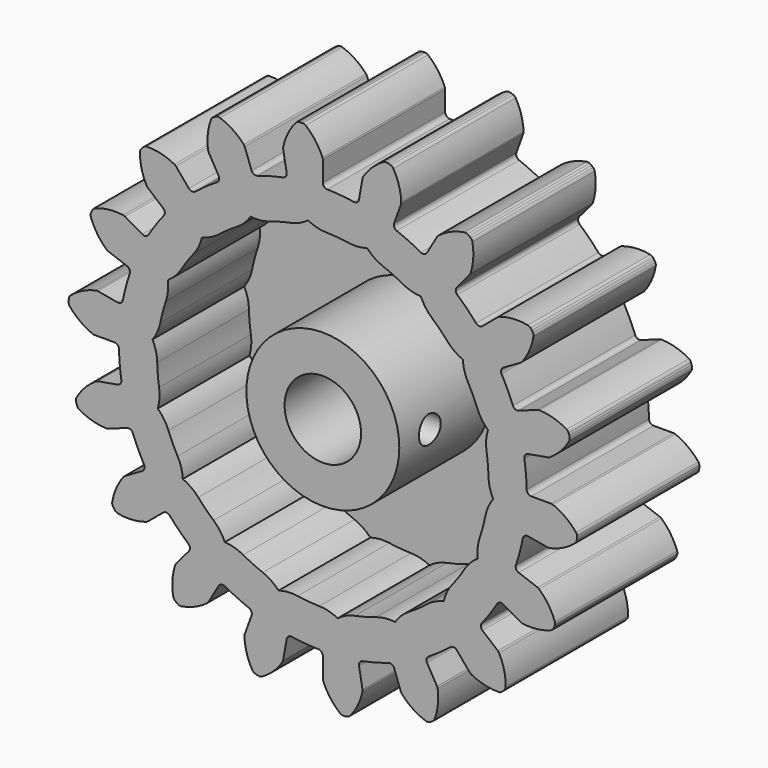
from build123d import *

# Parameters (mm, degrees)
F1_DEPTH = 12.7
F2_R     = 3.175
F3_DEPTH = 12.701
F4_T     = -3.175
F6_R     = 1.1303
F7_DEPTH = 6.35


with BuildPart() as f1:
    # F0 (on Front) → F1 (new body)
    with BuildSketch(Plane.XZ):
        with BuildLine():
            ThreePointArc((-3.0058744214, 17.0471609584), (-3.0666036009, 16.7659156467), (-3.3066857461, 16.6073359439))
            ThreePointArc((-3.3066857461, 16.6073359439), (-4.3826691637, 16.3563439918), (-5.4399941136, 16.0357176897))
            ThreePointArc((-5.4399941136, 16.0357176897), (-5.7272012017, 16.0530106682), (-5.9204168696, 16.2662116631))
            Line((-5.9204168696, 16.2662116631), (-6.4907674263, 17.8332369386))
            Line((-6.4907674263, 17.8332369386), (-6.5653963797, 17.9575816917))
            ThreePointArc((-6.5653963797, 17.9575816917), (-7.4660135694, 18.7370093288), (-8.531863767, 19.2685938658))
            ThreePointArc((-8.531863767, 19.2685938658), (-8.6601879259, 19.2900518345), (-8.7882499857, 19.2670813527))
            Line((-8.7882499857, 19.2670813527), (-8.9559287857, 19.2060512605))
            Line((-8.9559287857, 19.2060512605), (-9.1104624037, 19.1168312346))
            ThreePointArc((-9.1104624037, 19.1168312346), (-9.2103755189, 19.0334951464), (-9.2764229407, 18.9214002211))
            ThreePointArc((-9.2764229407, 18.9214002211), (-9.5543208608, 17.7632156462), (-9.5361502212, 16.5722964249))
            Line((-9.5361502212, 16.5722964249), (-9.4888671807, 16.4352000632))
            Line((-9.4888671807, 16.4352000632), (-8.6550704471, 14.9910217575))
            ThreePointArc((-8.6550704471, 14.9910217575), (-8.6159456471, 14.7059670108), (-8.7873116146, 14.4748379046))
            ThreePointArc((-8.7873116146, 14.4748379046), (-9.7125609889, 13.8709746166), (-10.5964607882, 13.2080580156))
            ThreePointArc((-10.5964607882, 13.2080580156), (-10.8722617165, 13.1260774904), (-11.1267440887, 13.2603372416))
            Line((-11.1267440887, 13.2603372416), (-12.1986525074, 14.5377879505))
            Line((-12.1986525074, 14.5377879505), (-12.3113091945, 14.6291091921))
            ThreePointArc((-12.3113091945, 14.6291091921), (-13.4241924739, 15.0535023708), (-14.607576659, 15.1884862002))
            ThreePointArc((-14.607576659, 15.1884862002), (-14.7355009818, 15.1647606478), (-14.8479835869, 15.0993756515))
            Line((-14.8479835869, 15.0993756515), (-14.9846765971, 14.9846765971))
            Line((-14.9846765971, 14.9846765971), (-15.0993756515, 14.8479835869))
            ThreePointArc((-15.0993756515, 14.8479835869), (-15.1647606478, 14.7355009818), (-15.1884862002, 14.607576659))
            ThreePointArc((-15.1884862002, 14.607576659), (-15.0535023708, 13.4241924739), (-14.6291091921, 12.3113091945))
            Line((-14.6291091921, 12.3113091945), (-14.5377879505, 12.1986525074))
            Line((-14.5377879505, 12.1986525074), (-13.2603372416, 11.1267440887))
            ThreePointArc((-13.2603372416, 11.1267440887), (-13.1260774904, 10.8722617165), (-13.2080580156, 10.5964607882))
            ThreePointArc((-13.2080580156, 10.5964607882), (-13.8709746166, 9.7125609889), (-14.4748379046, 8.7873116146))
            ThreePointArc((-14.4748379046, 8.7873116146), (-14.7059670108, 8.6159456471), (-14.9910217575, 8.6550704471))
            Line((-14.9910217575, 8.6550704471), (-16.4352000632, 9.4888671807))
            Line((-16.4352000632, 9.4888671807), (-16.5722964249, 9.5361502212))
            ThreePointArc((-16.5722964249, 9.5361502212), (-17.7632156462, 9.5543208608), (-18.9214002211, 9.2764229407))
            ThreePointArc((-18.9214002211, 9.2764229407), (-19.0334951464, 9.2103755189), (-19.1168312346, 9.1104624037))
            Line((-19.1168312346, 9.1104624037), (-19.2060512605, 8.9559287857))
            Line((-19.2060512605, 8.9559287857), (-19.2670813527, 8.7882499857))
            ThreePointArc((-19.2670813527, 8.7882499857), (-19.2900518345, 8.6601879259), (-19.2685938658, 8.531863767))
            ThreePointArc((-19.2685938658, 8.531863767), (-18.7370093288, 7.4660135694), (-17.9575816917, 6.5653963797))
            Line((-17.9575816917, 6.5653963797), (-17.8332369386, 6.4907674263))
            Line((-17.8332369386, 6.4907674263), (-16.2662116631, 5.9204168696))
            ThreePointArc((-16.2662116631, 5.9204168696), (-16.0530106682, 5.7272012017), (-16.0357176897, 5.4399941136))
            ThreePointArc((-16.0357176897, 5.4399941136), (-16.3563439918, 4.3826691637), (-16.6073359439, 3.3066857461))
            ThreePointArc((-16.6073359439, 3.3066857461), (-16.7659156467, 3.0666036009), (-17.0471609584, 3.0058744214))
            Line((-17.0471609584, 3.0058744214), (-18.6894199337, 3.2954489881))
            Line((-18.6894199337, 3.2954489881), (-18.8344201254, 3.2929907951))
            ThreePointArc((-18.8344201254, 3.2929907951), (-19.9597328543, 2.9027472483), (-20.9530236664, 2.2454861691))
            ThreePointArc((-20.9530236664, 2.2454861691), (-21.0357688919, 2.1450831719), (-21.079906901, 2.0226929339))
            Line((-21.079906901, 2.0226929339), (-21.1108926909, 1.8469637874))
            Line((-21.1108926909, 1.8469637874), (-21.1108926909, 1.6685237355))
            ThreePointArc((-21.1108926909, 1.6685237355), (-21.0886780791, 1.5403283954), (-21.024624737, 1.4270821877))
            ThreePointArc((-21.024624737, 1.4270821877), (-20.1605564329, 0.6073232417), (-19.1201048136, 0.0275998665))
            Line((-19.1201048136, 0.0275998665), (-18.9777343614, 0))
            Line((-18.9777343614, 0), (-17.3101408942, 0))
            ThreePointArc((-17.3101408942, 0), (-17.0437138421, -0.1086443026), (-16.9292331484, -0.3726161369))
            ThreePointArc((-16.9292331484, -0.3726161369), (-16.8688968877, -1.4758372439), (-16.7367441702, -2.572775225))
            ThreePointArc((-16.7367441702, -2.572775225), (-16.803647417, -2.8526160979), (-17.0471609584, -3.0058744214))
            Line((-17.0471609584, -3.0058744214), (-18.6894199337, -3.2954489881))
            Line((-18.6894199337, -3.2954489881), (-18.8248347923, -3.3473519202))
            ThreePointArc((-18.8248347923, -3.3473519202), (-19.748811706, -4.0989405223), (-20.4574032239, -5.0562893743))
            ThreePointArc((-20.4574032239, -5.0562893743), (-20.5008184542, -5.1789378638), (-20.5004346889, -5.3090431555))
            Line((-20.5004346889, -5.3090431555), (-20.4694488991, -5.484772302))
            Line((-20.4694488991, -5.484772302), (-20.4084188069, -5.652451102))
            ThreePointArc((-20.4084188069, -5.652451102), (-20.3436985116, -5.7653174724), (-20.2447755745, -5.8498265649))
            ThreePointArc((-20.2447755745, -5.8498265649), (-19.1524428931, -6.3246192321), (-17.9764611123, -6.5135255978))
            Line((-17.9764611123, -6.5135255978), (-17.8332369386, -6.4907674263))
            Line((-17.8332369386, -6.4907674263), (-16.2662116631, -5.9204168696))
            ThreePointArc((-16.2662116631, -5.9204168696), (-15.9786935883, -5.9313857005), (-15.7808332405, -6.1402833821))
            ThreePointArc((-15.7808332405, -6.1402833821), (-15.3468118605, -7.1563358988), (-14.8474540415, -8.1419215338))
            ThreePointArc((-14.8474540415, -8.1419215338), (-14.8146113134, -8.4277681951), (-14.9910217575, -8.6550704471))
            Line((-14.9910217575, -8.6550704471), (-16.4352000632, -9.4888671807))
            Line((-16.4352000632, -9.4888671807), (-16.5446965584, -9.5839545924))
            ThreePointArc((-16.5446965584, -9.5839545924), (-17.1558924045, -10.6062355721), (-17.4943180334, -11.7482017963))
            ThreePointArc((-17.4943180334, -11.7482017963), (-17.493166751, -11.8783025601), (-17.4483074991, -12.0004302872))
            Line((-17.4483074991, -12.0004302872), (-17.3590874732, -12.1549639052))
            Line((-17.3590874732, -12.1549639052), (-17.2443884187, -12.2916569153))
            ThreePointArc((-17.2443884187, -12.2916569153), (-17.1449686626, -12.375580966), (-17.0231076967, -12.4211598995))
            ThreePointArc((-17.0231076967, -12.4211598995), (-15.8342620804, -12.493719285), (-14.6645908966, -12.2690237457))
            Line((-14.6645908966, -12.2690237457), (-14.5377879505, -12.1986525074))
            Line((-14.5377879505, -12.1986525074), (-13.2603372416, -11.1267440887))
            ThreePointArc((-13.2603372416, -11.1267440887), (-12.9864070673, -11.038714445), (-12.7290319436, -11.1673418304))
            ThreePointArc((-12.7290319436, -11.1673418304), (-11.9736748281, -11.9736748281), (-11.1673418304, -12.7290319436))
            ThreePointArc((-11.1673418304, -12.7290319436), (-11.038714445, -12.9864070673), (-11.1267440887, -13.2603372416))
            Line((-11.1267440887, -13.2603372416), (-12.1986525074, -14.5377879505))
            Line((-12.1986525074, -14.5377879505), (-12.2690237457, -14.6645908966))
            ThreePointArc((-12.2690237457, -14.6645908966), (-12.493719285, -15.8342620804), (-12.4211598995, -17.0231076967))
            ThreePointArc((-12.4211598995, -17.0231076967), (-12.375580966, -17.1449686626), (-12.2916569153, -17.2443884187))
            Line((-12.2916569153, -17.2443884187), (-12.1549639052, -17.3590874732))
            Line((-12.1549639052, -17.3590874732), (-12.0004302872, -17.4483074991))
            ThreePointArc((-12.0004302872, -17.4483074991), (-11.8783025601, -17.493166751), (-11.7482017963, -17.4943180334))
            ThreePointArc((-11.7482017963, -17.4943180334), (-10.6062355721, -17.1558924045), (-9.5839545924, -16.5446965584))
            Line((-9.5839545924, -16.5446965584), (-9.4888671807, -16.4352000632))
            Line((-9.4888671807, -16.4352000632), (-8.6550704471, -14.9910217575))
            ThreePointArc((-8.6550704471, -14.9910217575), (-8.4277681951, -14.8146113134), (-8.1419215338, -14.8474540415))
            ThreePointArc((-8.1419215338, -14.8474540415), (-7.1563358988, -15.3468118605), (-6.1402833821, -15.7808332405))
            ThreePointArc((-6.1402833821, -15.7808332405), (-5.9313857005, -15.9786935883), (-5.9204168696, -16.2662116631))
            Line((-5.9204168696, -16.2662116631), (-6.4907674263, -17.8332369386))
            Line((-6.4907674263, -17.8332369386), (-6.5135255978, -17.9764611123))
            ThreePointArc((-6.5135255978, -17.9764611123), (-6.3246192321, -19.1524428931), (-5.8498265649, -20.2447755745))
            ThreePointArc((-5.8498265649, -20.2447755745), (-5.7653174724, -20.3436985116), (-5.652451102, -20.4084188069))
            Line((-5.652451102, -20.4084188069), (-5.484772302, -20.4694488991))
            Line((-5.484772302, -20.4694488991), (-5.3090431555, -20.5004346889))
            ThreePointArc((-5.3090431555, -20.5004346889), (-5.1789378638, -20.5008184542), (-5.0562893743, -20.4574032239))
            ThreePointArc((-5.0562893743, -20.4574032239), (-4.0989405223, -19.748811706), (-3.3473519202, -18.8248347923))
            Line((-3.3473519202, -18.8248347923), (-3.2954489881, -18.6894199337))
            Line((-3.2954489881, -18.6894199337), (-3.0058744214, -17.0471609584))
            ThreePointArc((-3.0058744214, -17.0471609584), (-2.8526160979, -16.803647417), (-2.572775225, -16.7367441702))
            ThreePointArc((-2.572775225, -16.7367441702), (-1.4758372439, -16.8688968877), (-0.3726161369, -16.9292331484))
            ThreePointArc((-0.3726161369, -16.9292331484), (-0.1086443026, -17.0437138421), (0, -17.3101408942))
            Line((0, -17.3101408942), (0, -18.9777343614))
            Line((0, -18.9777343614), (0.0275998665, -19.1201048136))
            ThreePointArc((0.0275998665, -19.1201048136), (0.6073232417, -20.1605564329), (1.4270821877, -21.024624737))
            ThreePointArc((1.4270821877, -21.024624737), (1.5403283954, -21.0886780791), (1.6685237355, -21.1108926909))
            Line((1.6685237355, -21.1108926909), (1.8469637874, -21.1108926909))
            Line((1.8469637874, -21.1108926909), (2.0226929339, -21.079906901))
            ThreePointArc((2.0226929339, -21.079906901), (2.1450831719, -21.0357688919), (2.2454861691, -20.9530236664))
            ThreePointArc((2.2454861691, -20.9530236664), (2.9027472483, -19.9597328543), (3.2929907951, -18.8344201254))
            Line((3.2929907951, -18.8344201254), (3.2954489881, -18.6894199337))
            Line((3.2954489881, -18.6894199337), (3.0058744214, -17.0471609584))
            ThreePointArc((3.0058744214, -17.0471609584), (3.0666036009, -16.7659156467), (3.3066857461, -16.6073359439))
            ThreePointArc((3.3066857461, -16.6073359439), (4.3826691637, -16.3563439918), (5.4399941136, -16.0357176897))
            ThreePointArc((5.4399941136, -16.0357176897), (5.7272012017, -16.0530106682), (5.9204168696, -16.2662116631))
            Line((5.9204168696, -16.2662116631), (6.4907674263, -17.8332369386))
            Line((6.4907674263, -17.8332369386), (6.5653963797, -17.9575816917))
            ThreePointArc((6.5653963797, -17.9575816917), (7.4660135694, -18.7370093288), (8.531863767, -19.2685938658))
            ThreePointArc((8.531863767, -19.2685938658), (8.6601879259, -19.2900518345), (8.7882499857, -19.2670813527))
            Line((8.7882499857, -19.2670813527), (8.9559287857, -19.2060512605))
            Line((8.9559287857, -19.2060512605), (9.1104624037, -19.1168312346))
            ThreePointArc((9.1104624037, -19.1168312346), (9.2103755189, -19.0334951464), (9.2764229407, -18.9214002211))
            ThreePointArc((9.2764229407, -18.9214002211), (9.5543208608, -17.7632156462), (9.5361502212, -16.5722964249))
            Line((9.5361502212, -16.5722964249), (9.4888671807, -16.4352000632))
            Line((9.4888671807, -16.4352000632), (8.6550704471, -14.9910217575))
            ThreePointArc((8.6550704471, -14.9910217575), (8.6159456471, -14.7059670108), (8.7873116146, -14.4748379046))
            ThreePointArc((8.7873116146, -14.4748379046), (9.7125609889, -13.8709746166), (10.5964607882, -13.2080580156))
            ThreePointArc((10.5964607882, -13.2080580156), (10.8722617165, -13.1260774904), (11.1267440887, -13.2603372416))
            Line((11.1267440887, -13.2603372416), (12.1986525074, -14.5377879505))
            Line((12.1986525074, -14.5377879505), (12.3113091945, -14.6291091921))
            ThreePointArc((12.3113091945, -14.6291091921), (13.4241924739, -15.0535023708), (14.607576659, -15.1884862002))
            ThreePointArc((14.607576659, -15.1884862002), (14.7355009818, -15.1647606478), (14.8479835869, -15.0993756515))
            Line((14.8479835869, -15.0993756515), (14.9846765971, -14.9846765971))
            Line((14.9846765971, -14.9846765971), (15.0993756515, -14.8479835869))
            ThreePointArc((15.0993756515, -14.8479835869), (15.1647606478, -14.7355009818), (15.1884862002, -14.607576659))
            ThreePointArc((15.1884862002, -14.607576659), (15.0535023708, -13.4241924739), (14.6291091921, -12.3113091945))
            Line((14.6291091921, -12.3113091945), (14.5377879505, -12.1986525074))
            Line((14.5377879505, -12.1986525074), (13.2603372416, -11.1267440887))
            ThreePointArc((13.2603372416, -11.1267440887), (13.1260774904, -10.8722617165), (13.2080580156, -10.5964607882))
            ThreePointArc((13.2080580156, -10.5964607882), (13.8709746166, -9.7125609889), (14.4748379046, -8.7873116146))
            ThreePointArc((14.4748379046, -8.7873116146), (14.7059670108, -8.6159456471), (14.9910217575, -8.6550704471))
            Line((14.9910217575, -8.6550704471), (16.4352000632, -9.4888671807))
            Line((16.4352000632, -9.4888671807), (16.5722964249, -9.5361502212))
            ThreePointArc((16.5722964249, -9.5361502212), (17.7632156462, -9.5543208608), (18.9214002211, -9.2764229407))
            ThreePointArc((18.9214002211, -9.2764229407), (19.0334951464, -9.2103755189), (19.1168312346, -9.1104624037))
            Line((19.1168312346, -9.1104624037), (19.2060512605, -8.9559287857))
            Line((19.2060512605, -8.9559287857), (19.2670813527, -8.7882499857))
            ThreePointArc((19.2670813527, -8.7882499857), (19.2900518345, -8.6601879259), (19.2685938658, -8.531863767))
            ThreePointArc((19.2685938658, -8.531863767), (18.7370093288, -7.4660135694), (17.9575816917, -6.5653963797))
            Line((17.9575816917, -6.5653963797), (17.8332369386, -6.4907674263))
            Line((17.8332369386, -6.4907674263), (16.2662116631, -5.9204168696))
            ThreePointArc((16.2662116631, -5.9204168696), (16.0530106682, -5.7272012017), (16.0357176897, -5.4399941136))
            ThreePointArc((16.0357176897, -5.4399941136), (16.3563439918, -4.3826691637), (16.6073359439, -3.3066857461))
            ThreePointArc((16.6073359439, -3.3066857461), (16.7659156467, -3.0666036009), (17.0471609584, -3.0058744214))
            Line((17.0471609584, -3.0058744214), (18.6894199337, -3.2954489881))
            Line((18.6894199337, -3.2954489881), (18.8344201254, -3.2929907951))
            ThreePointArc((18.8344201254, -3.2929907951), (19.9597328543, -2.9027472483), (20.9530236664, -2.2454861691))
            ThreePointArc((20.9530236664, -2.2454861691), (21.0357688919, -2.1450831719), (21.079906901, -2.0226929339))
            Line((21.079906901, -2.0226929339), (21.1108926909, -1.8469637874))
            Line((21.1108926909, -1.8469637874), (21.1108926909, -1.6685237355))
            ThreePointArc((21.1108926909, -1.6685237355), (21.0886780791, -1.5403283954), (21.024624737, -1.4270821877))
            ThreePointArc((21.024624737, -1.4270821877), (20.1605564329, -0.6073232417), (19.1201048136, -0.0275998665))
            Line((19.1201048136, -0.0275998665), (18.9777343614, 0))
            Line((18.9777343614, 0), (17.3101408942, 0))
            ThreePointArc((17.3101408942, 0), (17.0437138421, 0.1086443026), (16.9292331484, 0.3726161369))
            ThreePointArc((16.9292331484, 0.3726161369), (16.8688968877, 1.4758372439), (16.7367441702, 2.572775225))
            ThreePointArc((16.7367441702, 2.572775225), (16.803647417, 2.8526160979), (17.0471609584, 3.0058744214))
            Line((17.0471609584, 3.0058744214), (18.6894199337, 3.2954489881))
            Line((18.6894199337, 3.2954489881), (18.8248347923, 3.3473519202))
            ThreePointArc((18.8248347923, 3.3473519202), (19.748811706, 4.0989405223), (20.4574032239, 5.0562893743))
            ThreePointArc((20.4574032239, 5.0562893743), (20.5008184542, 5.1789378638), (20.5004346889, 5.3090431555))
            Line((20.5004346889, 5.3090431555), (20.4694488991, 5.484772302))
            Line((20.4694488991, 5.484772302), (20.4084188069, 5.652451102))
            ThreePointArc((20.4084188069, 5.652451102), (20.3436985116, 5.7653174724), (20.2447755745, 5.8498265649))
            ThreePointArc((20.2447755745, 5.8498265649), (19.1524428931, 6.3246192321), (17.9764611123, 6.5135255978))
            Line((17.9764611123, 6.5135255978), (17.8332369386, 6.4907674263))
            Line((17.8332369386, 6.4907674263), (16.2662116631, 5.9204168696))
            ThreePointArc((16.2662116631, 5.9204168696), (15.9786935883, 5.9313857005), (15.7808332405, 6.1402833821))
            ThreePointArc((15.7808332405, 6.1402833821), (15.3468118605, 7.1563358988), (14.8474540415, 8.1419215338))
            ThreePointArc((14.8474540415, 8.1419215338), (14.8146113134, 8.4277681951), (14.9910217575, 8.6550704471))
            Line((14.9910217575, 8.6550704471), (16.4352000632, 9.4888671807))
            Line((16.4352000632, 9.4888671807), (16.5446965584, 9.5839545924))
            ThreePointArc((16.5446965584, 9.5839545924), (17.1558924045, 10.6062355721), (17.4943180334, 11.7482017963))
            ThreePointArc((17.4943180334, 11.7482017963), (17.493166751, 11.8783025601), (17.4483074991, 12.0004302872))
            Line((17.4483074991, 12.0004302872), (17.3590874732, 12.1549639052))
            Line((17.3590874732, 12.1549639052), (17.2443884187, 12.2916569153))
            ThreePointArc((17.2443884187, 12.2916569153), (17.1449686626, 12.375580966), (17.0231076967, 12.4211598995))
            ThreePointArc((17.0231076967, 12.4211598995), (15.8342620804, 12.493719285), (14.6645908966, 12.2690237457))
            Line((14.6645908966, 12.2690237457), (14.5377879505, 12.1986525074))
            Line((14.5377879505, 12.1986525074), (13.2603372416, 11.1267440887))
            ThreePointArc((13.2603372416, 11.1267440887), (12.9864070673, 11.038714445), (12.7290319436, 11.1673418304))
            ThreePointArc((12.7290319436, 11.1673418304), (11.9736748281, 11.9736748281), (11.1673418304, 12.7290319436))
            ThreePointArc((11.1673418304, 12.7290319436), (11.038714445, 12.9864070673), (11.1267440887, 13.2603372416))
            Line((11.1267440887, 13.2603372416), (12.1986525074, 14.5377879505))
            Line((12.1986525074, 14.5377879505), (12.2690237457, 14.6645908966))
            ThreePointArc((12.2690237457, 14.6645908966), (12.493719285, 15.8342620804), (12.4211598995, 17.0231076967))
            ThreePointArc((12.4211598995, 17.0231076967), (12.375580966, 17.1449686626), (12.2916569153, 17.2443884187))
            Line((12.2916569153, 17.2443884187), (12.1549639052, 17.3590874732))
            Line((12.1549639052, 17.3590874732), (12.0004302872, 17.4483074991))
            ThreePointArc((12.0004302872, 17.4483074991), (11.8783025601, 17.493166751), (11.7482017963, 17.4943180334))
            ThreePointArc((11.7482017963, 17.4943180334), (10.6062355721, 17.1558924045), (9.5839545924, 16.5446965584))
            Line((9.5839545924, 16.5446965584), (9.4888671807, 16.4352000632))
            Line((9.4888671807, 16.4352000632), (8.6550704471, 14.9910217575))
            ThreePointArc((8.6550704471, 14.9910217575), (8.4277681951, 14.8146113134), (8.1419215338, 14.8474540415))
            ThreePointArc((8.1419215338, 14.8474540415), (7.1563358988, 15.3468118605), (6.1402833821, 15.7808332405))
            ThreePointArc((6.1402833821, 15.7808332405), (5.9313857005, 15.9786935883), (5.9204168696, 16.2662116631))
            Line((5.9204168696, 16.2662116631), (6.4907674263, 17.8332369386))
            Line((6.4907674263, 17.8332369386), (6.5135255978, 17.9764611123))
            ThreePointArc((6.5135255978, 17.9764611123), (6.3246192321, 19.1524428931), (5.8498265649, 20.2447755745))
            ThreePointArc((5.8498265649, 20.2447755745), (5.7653174724, 20.3436985116), (5.652451102, 20.4084188069))
            Line((5.652451102, 20.4084188069), (5.484772302, 20.4694488991))
            Line((5.484772302, 20.4694488991), (5.3090431555, 20.5004346889))
            ThreePointArc((5.3090431555, 20.5004346889), (5.1789378638, 20.5008184542), (5.0562893743, 20.4574032239))
            ThreePointArc((5.0562893743, 20.4574032239), (4.0989405223, 19.748811706), (3.3473519202, 18.8248347923))
            Line((3.3473519202, 18.8248347923), (3.2954489881, 18.6894199337))
            Line((3.2954489881, 18.6894199337), (3.0058744214, 17.0471609584))
            ThreePointArc((3.0058744214, 17.0471609584), (2.8526160979, 16.803647417), (2.572775225, 16.7367441702))
            ThreePointArc((2.572775225, 16.7367441702), (1.4758372439, 16.8688968877), (0.3726161369, 16.9292331484))
            ThreePointArc((0.3726161369, 16.9292331484), (0.1086443026, 17.0437138421), (0, 17.3101408942))
            Line((0, 17.3101408942), (0, 18.9777343614))
            ThreePointArc((0, 18.9777343614), (-0.0069636041, 19.0502448749), (-0.0275998665, 19.1201048136))
            ThreePointArc((-0.0275998665, 19.1201048136), (-0.6073232417, 20.1605564329), (-1.4270821877, 21.024624737))
            ThreePointArc((-1.4270821877, 21.024624737), (-1.5403283954, 21.0886780791), (-1.6685237355, 21.1108926909))
            Line((-1.6685237355, 21.1108926909), (-1.8469637874, 21.1108926909))
            Line((-1.8469637874, 21.1108926909), (-2.0226929339, 21.079906901))
            ThreePointArc((-2.0226929339, 21.079906901), (-2.1450831719, 21.0357688919), (-2.2454861691, 20.9530236664))
            ThreePointArc((-2.2454861691, 20.9530236664), (-2.9027472483, 19.9597328543), (-3.2929907951, 18.8344201254))
            ThreePointArc((-3.2929907951, 18.8344201254), (-3.3011824953, 18.7620380668), (-3.2954489881, 18.6894199337))
            Line((-3.2954489881, 18.6894199337), (-3.0058744214, 17.0471609584))
        make_face()
    extrude(amount=F1_DEPTH)

    # F2 (on face) → F3 (cut, through all)
    with BuildSketch(Plane.XZ.offset(12.7)):
        Circle(F2_R)
    extrude(amount=-F3_DEPTH, mode=Mode.SUBTRACT)

    # F4
    f4_openings = [f1.faces().sort_by_distance(p)[0] for p in [
        (-1.849586, -12.7, 20.516907),
    ]]
    offset(amount=F4_T, openings=f4_openings)

    # F6 (on offset) → F7 (cut)
    with BuildSketch(Plane.YZ.offset(6.35)):
        with Locations((-9.525, 0)):
            Circle(F6_R)
    extrude(amount=-F7_DEPTH, mode=Mode.SUBTRACT)


solid = f1.part
